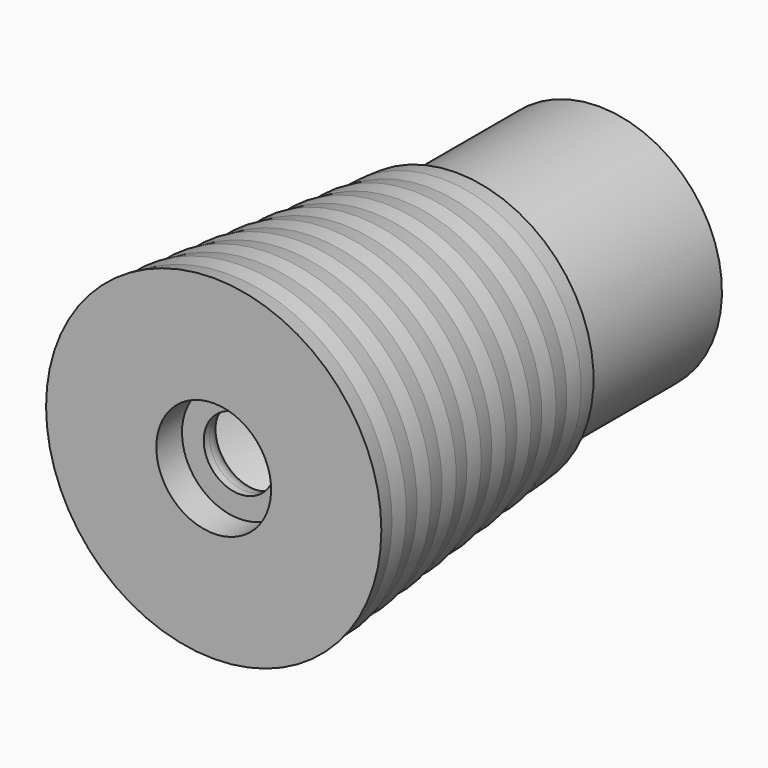
from build123d import *

# Parameters (mm, degrees)
F2_R     = 10
F3_DEPTH = 3


with BuildPart() as f1:
    # F0 (on Right) → F1 (revolve)
    with BuildSketch(Plane.YZ):
        with BuildLine():
            Line((0, 8.05), (0, 5))
            Line((0, 5), (1, 5))
            ThreePointArc((1, 5), (3.12132, 5.87868), (4, 8))
            Line((4, 8), (4, 11.05))
            Line((4, 11.05), (1.5, 11.05))
            ThreePointArc((1.5, 11.05), (-0.62132, 11.92868), (-1.5, 14.05))
            Line((-1.5, 14.05), (-1.5, 15.615087))
            ThreePointArc((-1.5, 15.615087), (-0.513016, 17.839445), (1.798511, 18.600199))
            Line((1.798511, 18.600199), (35.151613, 15.264888))
            ThreePointArc((35.151613, 15.264888), (35.300683, 15.253724), (35.450124, 15.25))
            Line((35.450124, 15.25), (51.5, 15.25))
            ThreePointArc((51.5, 15.25), (53.62132, 14.37132), (54.5, 12.25))
            Line((54.5, 12.25), (54.5, 8))
            ThreePointArc((54.5, 8), (55.37868, 5.87868), (57.5, 5))
            Line((57.5, 5), (58.5, 5))
            Line((58.5, 5), (58.5, 8.05))
            Line((58.5, 8.05), (63, 8.05))
            Line((63, 8.05), (63, 17.25))
            Line((63, 17.25), (38, 17.25))
            Line((38, 17.25), (38, 19.25))
            Line((38, 19.25), (35.5, 19.5))
            Line((35.5, 19.5), (33, 19.5))
            Line((33, 19.5), (30.5, 20))
            Line((30.5, 20), (28, 20))
            Line((28, 20), (25.5, 20.5))
            Line((25.5, 20.5), (23, 20.5))
            Line((23, 20.5), (20.5, 21))
            Line((20.5, 21), (18, 21))
            Line((18, 21), (15.5, 21.5))
            Line((15.5, 21.5), (13, 21.5))
            Line((13, 21.5), (10.5, 22))
            Line((10.5, 22), (8, 22))
            Line((8, 22), (5.5, 22.5))
            Line((5.5, 22.5), (3, 22.5))
            Line((3, 22.5), (0.5, 23))
            Line((0.5, 23), (-2, 23))
            Line((-2, 23), (-4.5, 23.5))
            Line((-4.5, 23.5), (-4.5, 8.05))
            Line((-4.5, 8.05), (0, 8.05))
        make_face()
    revolve(axis=Axis((0, 24.89554, 0), (0, 1, 0)))

    # F2 (on face) → F3 (cut)
    with BuildSketch(Plane(origin=(0, 63, 0), x_dir=(-1, 0, 0), z_dir=(0, 1, 0))):
        with BuildLine():
            ThreePointArc((1.5, 14.924812), (0, 14.247687), (-1.5, 14.924812))
            ThreePointArc((-1.5, 14.924812), (-3.118675, 14.672214), (-4.70015, 14.244599))
            ThreePointArc((-4.70015, 14.244599), (-5.795056, 13.01591), (-7.440786, 13.024389))
            ThreePointArc((-7.440786, 13.024389), (-8.816779, 12.135255), (-10.087601, 11.101365))
            ThreePointArc((-10.087601, 11.101365), (-10.588095, 9.533564), (-12.094992, 8.871931))
            ThreePointArc((-12.094992, 8.871931), (-12.990381, 7.5), (-13.730814, 6.038605))
            ThreePointArc((-13.730814, 6.038605), (-13.550356, 4.402777), (-14.657865, 3.185436))
            ThreePointArc((-14.657865, 3.185436), (-14.917828, 1.567927), (-14.999845, -0.068285))
            ThreePointArc((-14.999845, -0.068285), (-14.169637, -1.489289), (-14.686259, -3.05185))
            ThreePointArc((-14.686259, -3.05185), (-14.265848, -4.635255), (-13.675266, -6.163368))
            ThreePointArc((-13.675266, -6.163368), (-12.338859, -7.123844), (-12.175266, -8.761444))
            ThreePointArc((-12.175266, -8.761444), (-11.147172, -10.036959), (-9.98611, -11.192748))
            ThreePointArc((-9.98611, -11.192748), (-8.37458, -11.526621), (-7.559059, -12.956104))
            ThreePointArc((-7.559059, -12.956104), (-6.10105, -13.703182), (-4.570264, -14.286801))
            ThreePointArc((-4.570264, -14.286801), (-2.962261, -13.936341), (-1.635821, -14.910536))
            ThreePointArc((-1.635821, -14.910536), (0, -15), (1.635821, -14.910536))
            ThreePointArc((1.635821, -14.910536), (2.962261, -13.936341), (4.570264, -14.286801))
            ThreePointArc((4.570264, -14.286801), (6.10105, -13.703182), (7.559059, -12.956104))
            ThreePointArc((7.559059, -12.956104), (8.37458, -11.526621), (9.98611, -11.192748))
            ThreePointArc((9.98611, -11.192748), (11.147172, -10.036959), (12.175266, -8.761444))
            ThreePointArc((12.175266, -8.761444), (12.338859, -7.123844), (13.675266, -6.163368))
            ThreePointArc((13.675266, -6.163368), (14.265848, -4.635255), (14.686259, -3.05185))
            ThreePointArc((14.686259, -3.05185), (14.169637, -1.489289), (14.999845, -0.068285))
            ThreePointArc((14.999845, -0.068285), (14.917828, 1.567927), (14.657865, 3.185436))
            ThreePointArc((14.657865, 3.185436), (13.550356, 4.402777), (13.730814, 6.038605))
            ThreePointArc((13.730814, 6.038605), (12.990381, 7.5), (12.094992, 8.871931))
            ThreePointArc((12.094992, 8.871931), (10.588095, 9.533564), (10.087601, 11.101365))
            ThreePointArc((10.087601, 11.101365), (8.816779, 12.135255), (7.440786, 13.024389))
            ThreePointArc((7.440786, 13.024389), (5.795056, 13.01591), (4.70015, 14.244599))
            ThreePointArc((4.70015, 14.244599), (3.118675, 14.672214), (1.5, 14.924812))
        make_face()
        Circle(F2_R, mode=Mode.SUBTRACT)
    extrude(amount=-F3_DEPTH, mode=Mode.SUBTRACT)


solid = f1.part
